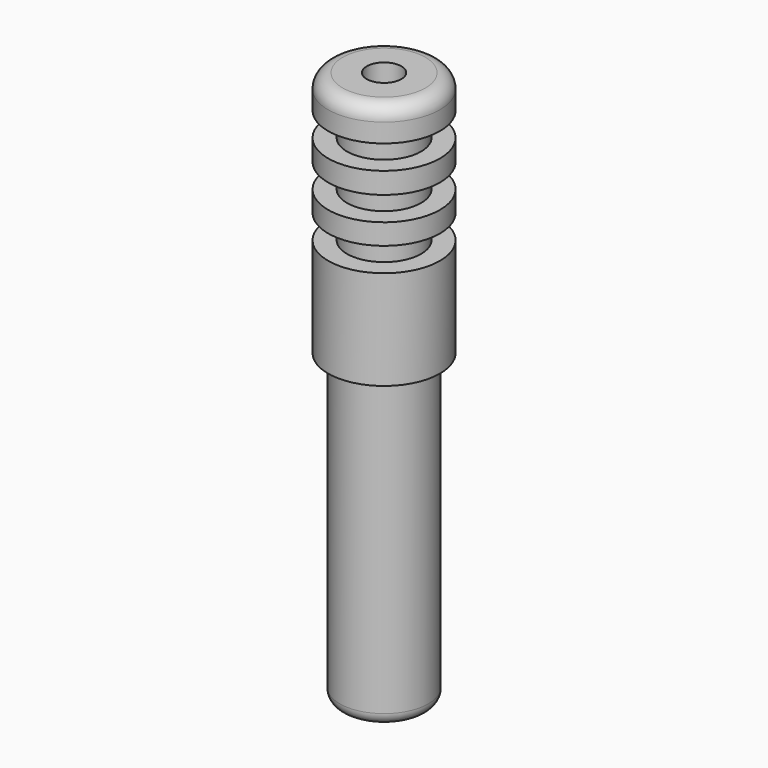
from build123d import *


with BuildPart() as f1:
    # F0 (on Front) → F1 (revolve)
    with BuildSketch(Plane.XZ):
        with BuildLine():
            Line((0.914, 13.005), (0.914, 1.372))
            Line((0.914, 1.372), (1.143, 1.143))
            Line((1.143, 1.143), (1.143, -15.773))
            ThreePointArc((1.143, -15.773), (1.254592, -16.042408), (1.524, -16.154))
            Line((1.524, -16.154), (1.702, -16.154))
            ThreePointArc((1.702, -16.154), (2.151013, -15.968013), (2.337, -15.519))
            Line((2.337, -15.519), (2.337, 0))
            Line((2.337, 0), (2.946, 0))
            Line((2.946, 0), (2.946, 5.232))
            Line((2.946, 5.232), (1.955, 5.232))
            Line((1.955, 5.232), (1.955, 6.502))
            Line((1.955, 6.502), (2.946, 6.502))
            Line((2.946, 6.502), (2.946, 7.595))
            Line((2.946, 7.595), (1.955, 7.595))
            Line((1.955, 7.595), (1.955, 8.865))
            Line((1.955, 8.865), (2.946, 8.865))
            Line((2.946, 8.865), (2.946, 9.982))
            Line((2.946, 9.982), (1.955, 9.982))
            Line((1.955, 9.982), (1.955, 11.252))
            Line((1.955, 11.252), (2.946, 11.252))
            Line((2.946, 11.252), (2.946, 12.243))
            ThreePointArc((2.946, 12.243), (2.722815, 12.781815), (2.184, 13.005))
            Line((2.184, 13.005), (0.914, 13.005))
        make_face()
    revolve(axis=Axis((0, 0, 11.256295), (0, 0, 1)))


solid = f1.part
